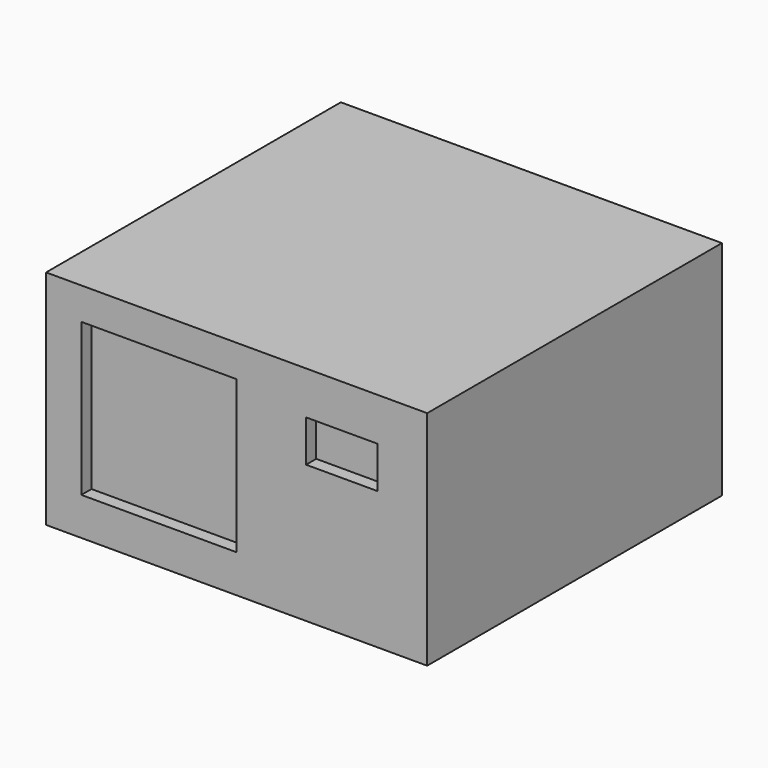
from build123d import *

# Parameters (mm, degrees)
F0_W     = 152.4
F0_H     = 147.32
F1_DEPTH = 88.9
F2_W     = 62.077993
F2_H     = 60.928402
F2_W_2   = 28.548219
F2_H_2   = 16.669087
F3_DEPTH = 5.08


with BuildPart() as f1:
    # F0 (on Top) → F1 (new body)
    with BuildSketch(Plane.XY):
        with Locations((76.2, 73.66)):
            Rectangle(F0_W, F0_H)
    extrude(amount=F1_DEPTH)

    # F2 (on face) → F3 (cut)
    with BuildSketch(Plane.XZ):
        with Locations((45.143026, 45.622946)):
            Rectangle(F2_W, F2_H)
        with Locations((118.237953, 63.34583)):
            Rectangle(F2_W_2, F2_H_2)
    extrude(amount=-F3_DEPTH, mode=Mode.SUBTRACT)


solid = f1.part
